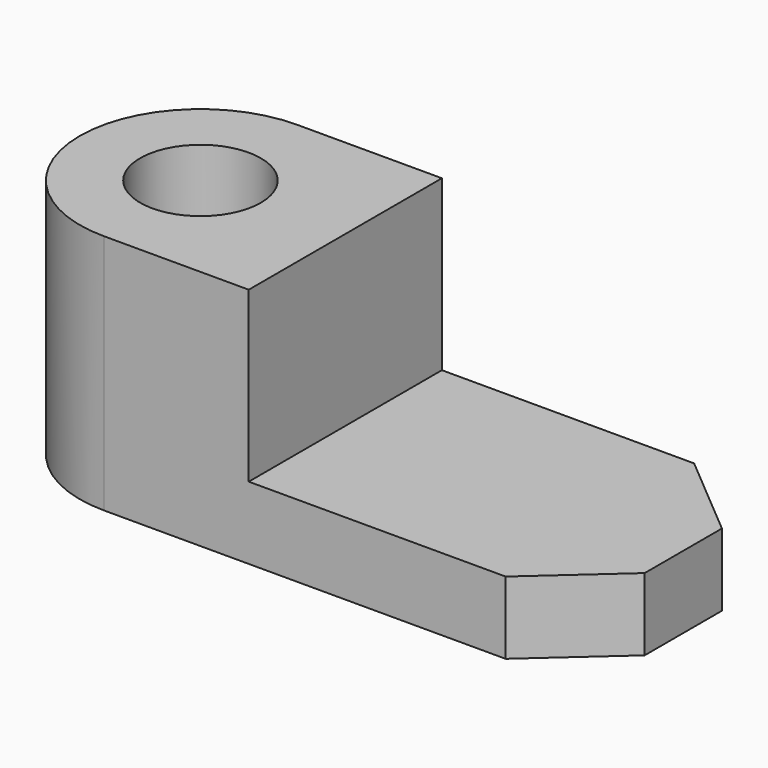
from build123d import *

# Parameters (mm, degrees)
F0_R     = 7.5
F1_DEPTH = 9
F2_R     = 7.5
F3_DEPTH = 21


with BuildPart() as f1:
    # F0 (on Top) → F1 (new body)
    with BuildSketch(Plane.XY):
        with BuildLine():
            Line((-0.11538, 0), (17.88462, 0))
            Line((17.88462, 0), (17.88462, 30))
            Line((17.88462, 30), (-0.11538, 30))
            ThreePointArc((-0.11538, 30), (-15.11538, 15), (-0.11538, 0))
        make_face()
        with Locations((-0.11538, 15)):
            Circle(F0_R, mode=Mode.SUBTRACT)
        Polygon((17.88462, 30), (17.88462, 0), (49.807702, 0), (59.88462, 9), (59.88462, 21), (49.230773, 30), align=None)
    extrude(amount=F1_DEPTH)

    # F2 (on face) → F3 (join)
    with BuildSketch(Plane.XY.offset(9)):
        with BuildLine():
            Line((17.88462, 0), (17.88462, 30))
            Line((17.88462, 30), (-0.11538, 30))
            ThreePointArc((-0.11538, 30), (-15.11538, 15), (-0.11538, 0))
            Line((-0.11538, 0), (17.88462, 0))
        make_face()
        with Locations((-0.11538, 15)):
            Circle(F2_R, mode=Mode.SUBTRACT)
    extrude(amount=F3_DEPTH)


solid = f1.part
